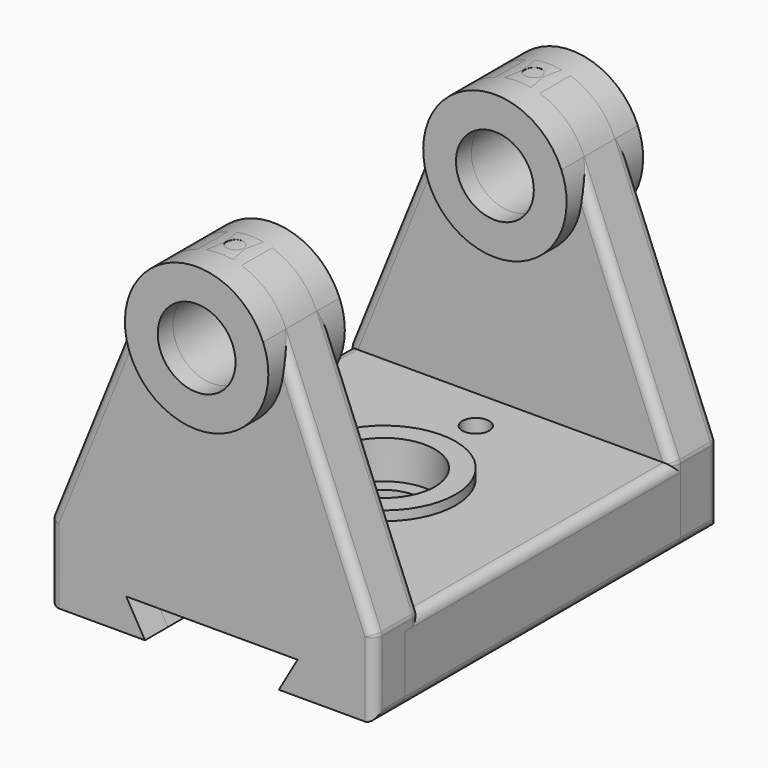
from build123d import *

# Parameters (mm, degrees)
F0_R      = 10.3378
F1_DEPTH  = 7.62
F2_DEPTH  = 12.7
F4_START  = 69.342
F3_R      = 2.286
F4_DEPTH  = 29.464
F7_DEPTH  = 99.06
F8_R      = 9.652
F9_DEPTH  = 25.4
F8_R_2    = 13.5001
F10_DEPTH = 7.62
F8_R_3    = 19.05
F11_DEPTH = 2.54
F8_R_4    = 3.556
F12_DEPTH = 7.62
F13_R     = 2.54
F13_2_R   = 2.54
F13_3_R   = 2.54


with BuildPart() as f1:
    # F0 (on Front) → F1 (new body, symmetric)
    with BuildSketch(Plane.XZ):
        Polygon((43.18, -10.16), (43.18, 10.16), (-43.18, 10.16), (-43.18, -10.16), (-17.78, -10.16), (-22.76602, -1.524), (22.76602, -1.524), (17.78, -10.16), align=None)
        with BuildLine():
            ThreePointArc((19.05, 66.04), (18.6985855802, 69.6821693124), (17.65730737, 73.1899647859))
            ThreePointArc((17.65730737, 73.1899647859), (0, 85.09), (-17.65730737, 73.1899647859))
            ThreePointArc((-17.65730737, 73.1899647859), (-3.6421693124, 47.3414144198), (19.05, 66.04))
        make_face()
        with Locations((0, 66.04)):
            Circle(F0_R, mode=Mode.SUBTRACT)
        with BuildLine():
            Line((-43.18, 10.16), (43.18, 10.16))
            Line((43.18, 10.16), (17.65730737, 73.1899647859))
            ThreePointArc((17.65730737, 73.1899647859), (18.6985855802, 69.6821693124), (19.05, 66.04))
            ThreePointArc((19.05, 66.04), (-3.6421693124, 47.3414144198), (-17.65730737, 73.1899647859))
            Line((-17.65730737, 73.1899647859), (-43.18, 10.16))
        make_face()
    extrude(amount=F1_DEPTH, both=True)

    # F3 (on Top) → F4 (cut)
    with BuildSketch(Plane.XY.offset(F4_START)):
        Circle(F3_R)
    extrude(amount=F4_DEPTH, mode=Mode.SUBTRACT)


with BuildPart() as f2:
    # F0 (on Front) → F2 (new body, symmetric)
    with BuildSketch(Plane.XZ):
        with BuildLine():
            ThreePointArc((19.05, 66.04), (18.6985855802, 69.6821693124), (17.65730737, 73.1899647859))
            ThreePointArc((17.65730737, 73.1899647859), (0, 85.09), (-17.65730737, 73.1899647859))
            ThreePointArc((-17.65730737, 73.1899647859), (-3.6421693124, 47.3414144198), (19.05, 66.04))
        make_face()
        with Locations((0, 66.04)):
            Circle(F0_R, mode=Mode.SUBTRACT)
    extrude(amount=F2_DEPTH, both=True)


with BuildPart() as f6_1:
    # F6: instance of F2
    add(f2.part.mirror(Plane.XZ.offset(49.53)))


with BuildPart() as f6_2:
    # F6: instance of F1
    add(f1.part.mirror(Plane.XZ.offset(49.53)))

    # F13
    f13_edges = [f6_2.edges().sort_by_distance(p)[0] for p in [
        (43.18, -99.06, 10.16),
        (30.418654, -106.68, 41.674982),
        (17.657307, -99.06, 73.189965),
        (30.418654, -91.44, 41.674982),
        (43.18, -106.68, 0),
        (43.18, -91.44, 0),
        (43.18, -99.06, -10.16),
        (-43.18, -99.06, 10.16),
        (-43.18, -106.68, 0),
        (-43.18, -99.06, -10.16),
        (-43.18, -91.44, 0),
    ]]
    fillet(f13_edges, radius=F13_R)


with BuildPart() as f7:
    # F0 (on Front) → F7 (new body)
    with BuildSketch(Plane.XZ):
        Polygon((43.18, -10.16), (43.18, 10.16), (-43.18, 10.16), (-43.18, -10.16), (-17.78, -10.16), (-22.76602, -1.524), (22.76602, -1.524), (17.78, -10.16), align=None)
    extrude(amount=F7_DEPTH)

    # F8 (on face) → F9 (cut)
    with BuildSketch(Plane.XY.offset(10.16)):
        with Locations((0, -49.5330356061)):
            Circle(F8_R)
    extrude(amount=-F9_DEPTH, mode=Mode.SUBTRACT)

    # F8 (on face) → F10 (cut)
    with BuildSketch(Plane.XY.offset(10.16)):
        with Locations((0, -49.5330356061)):
            Circle(F8_R_2)
        with Locations((0, -49.5330356061)):
            Circle(F8_R, mode=Mode.SUBTRACT)
    extrude(amount=-F10_DEPTH, mode=Mode.SUBTRACT)

    # F8 (on face) → F11 (join)
    with BuildSketch(Plane.XY.offset(10.16)):
        with Locations((0, -49.5330356061)):
            Circle(F8_R_3)
        with Locations((0, -49.5330356061)):
            Circle(F8_R_2, mode=Mode.SUBTRACT)
    extrude(amount=F11_DEPTH)

    # F8 (on face) → F12 (cut)
    with BuildSketch(Plane.XY.offset(10.16)):
        with Locations((0, -80.0069643939)):
            Circle(F8_R_4)
        with Locations((0, -19.0530356061)):
            Circle(F8_R_4)
    extrude(amount=-F12_DEPTH, mode=Mode.SUBTRACT)

    # F13#3
    f13_3_edges = [f7.edges().sort_by_distance(p)[0] for p in [
        (43.18, -49.53, -10.16),
        (43.18, -49.53, 10.16),
        (43.18, 0, 0),
        (43.18, -99.06, 0),
        (-43.18, -49.53, 10.16),
        (-43.18, -49.53, -10.16),
        (-43.18, 0, 0),
        (-43.18, -99.06, 0),
    ]]
    fillet(f13_3_edges, radius=F13_3_R)


with BuildPart() as f1_1:
    add(f1.part)

    # F13#2
    f13_2_edges = [f1_1.edges().sort_by_distance(p)[0] for p in [
        (43.18, 0, 10.16),
        (30.418654, 7.62, 41.674982),
        (17.657307, 0, 73.189965),
        (30.418654, -7.62, 41.674982),
        (43.18, 7.62, 0),
        (43.18, -7.62, 0),
        (43.18, 0, -10.16),
        (-43.18, 0, 10.16),
        (-43.18, 7.62, 0),
        (-43.18, 0, -10.16),
        (-43.18, -7.62, 0),
    ]]
    fillet(f13_2_edges, radius=F13_2_R)


solid = Compound([f2.part, f6_1.part, f6_2.part, f7.part, f1_1.part])
